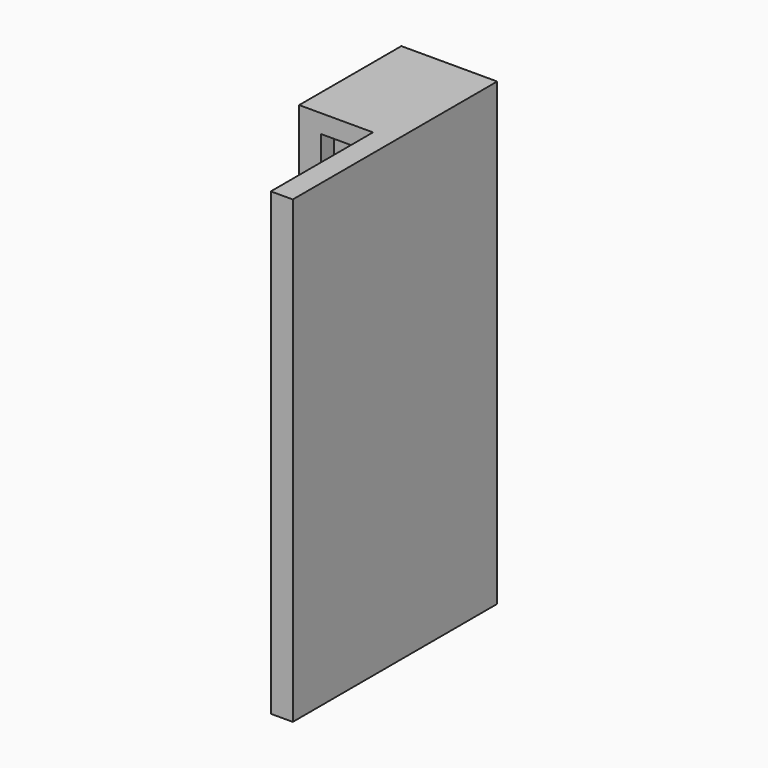
from build123d import *

# Parameters (mm, degrees)
F0_W     = 10.31875
F0_H     = 84.1375
F1_DEPTH = 1.5875
F2_W     = 19.05
F2_H     = 91.44
F3_DEPTH = 25.4
F4_W     = 10.31875
F4_H     = 84.1375
F5_DEPTH = 4.7625
F6_W     = 4.365625
F6_H     = 91.44
F7_DEPTH = 25.4


with BuildPart() as f1:
    # F0 (on Front) → F1 (new body)
    with BuildSketch(Plane.XZ):
        with Locations((-56.7394390884, 32.2464529891)):
            Rectangle(F0_W, F0_H)
    extrude(amount=F1_DEPTH)

    # F2 (on face) → F3 (join)
    with BuildSketch(Plane(origin=(0, 0, 0), x_dir=(-1, 0, 0), z_dir=(0, 1, 0))):
        with Locations((56.7394390884, 32.2464529891)):
            Rectangle(F2_W, F2_H)
    extrude(amount=F3_DEPTH)

    # F4 (on face) → F5 (cut)
    with BuildSketch(Plane.XZ.offset(1.5875)):
        with Locations((-56.7394390884, 32.2464529891)):
            Rectangle(F4_W, F4_H)
    extrude(amount=-F5_DEPTH, mode=Mode.SUBTRACT)

    # F6 (on face) → F7 (join)
    with BuildSketch(Plane.XZ):
        with Locations((-49.3972515884, 32.2464529891)):
            Rectangle(F6_W, F6_H)
    extrude(amount=F7_DEPTH)


solid = f1.part
